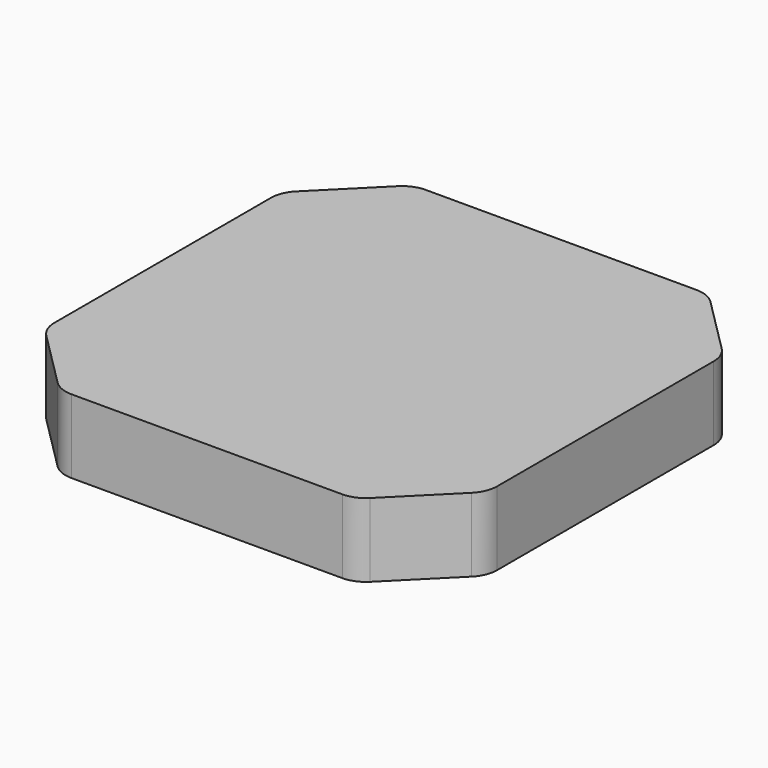
from build123d import *

# Parameters (mm, degrees)
F0_W     = 76.2
F0_H     = 76.2
F1_DEPTH = 12.7
F2_SIZE  = 12.7
F3_R     = 5.08


with BuildPart() as f1:
    # F0 (on Top) → F1 (new body)
    with BuildSketch(Plane.XY):
        Rectangle(F0_W, F0_H)
    extrude(amount=F1_DEPTH)

    # F2
    f2_edges = [f1.edges().sort_by_distance(p)[0] for p in [
        (-38.1, -38.1, 6.35),
        (38.1, -38.1, 6.35),
        (-38.1, 38.1, 6.35),
        (38.1, 38.1, 6.35),
    ]]
    chamfer(f2_edges, length=F2_SIZE)

    # F3
    f3_edges = [f1.edges().sort_by_distance(p)[0] for p in [
        (25.4, -38.1, 6.35),
        (38.1, -25.4, 6.35),
        (38.1, 25.4, 6.35),
        (25.4, 38.1, 6.35),
        (-25.4, 38.1, 6.35),
        (-38.1, 25.4, 6.35),
        (-38.1, -25.4, 6.35),
        (-25.4, -38.1, 6.35),
    ]]
    fillet(f3_edges, radius=F3_R)


solid = f1.part
